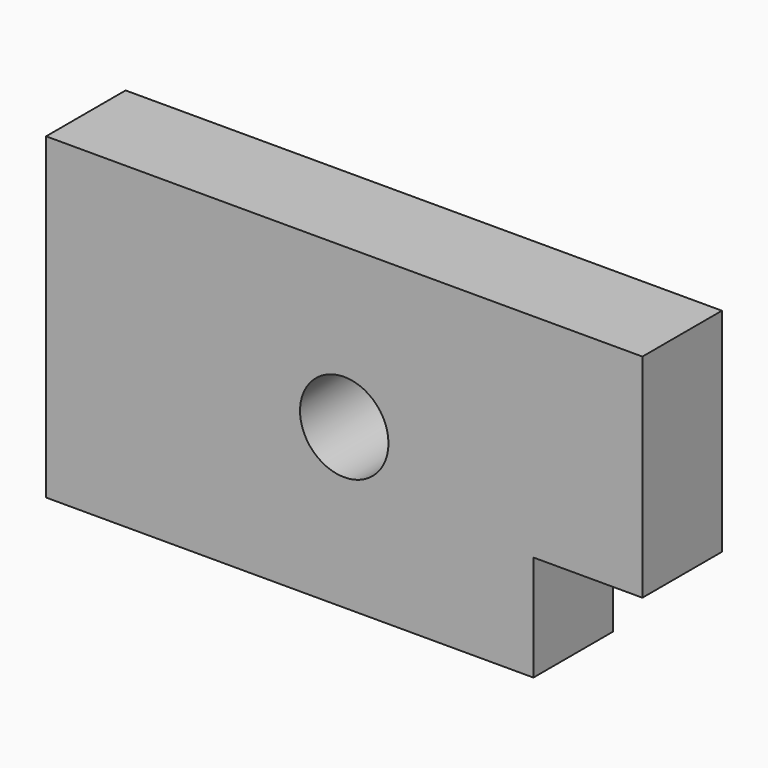
from build123d import *

# Parameters (mm, degrees)
F1_DEPTH = 50
F2_R     = 22.248347
F3_DEPTH = 50.001


with BuildPart() as f1:
    # F0 (on Front) → F1 (new body)
    with BuildSketch(Plane.XZ):
        Polygon((-150, -80), (95.169887, -80), (95.169887, -26.802706), (150, -26.802706), (150, 80), (-150, 80), align=None)
    extrude(amount=F1_DEPTH)

    # F2 (on Front) → F3 (cut, through all)
    with BuildSketch(Plane.XZ):
        Circle(F2_R)
    extrude(amount=F3_DEPTH, mode=Mode.SUBTRACT)


solid = f1.part
